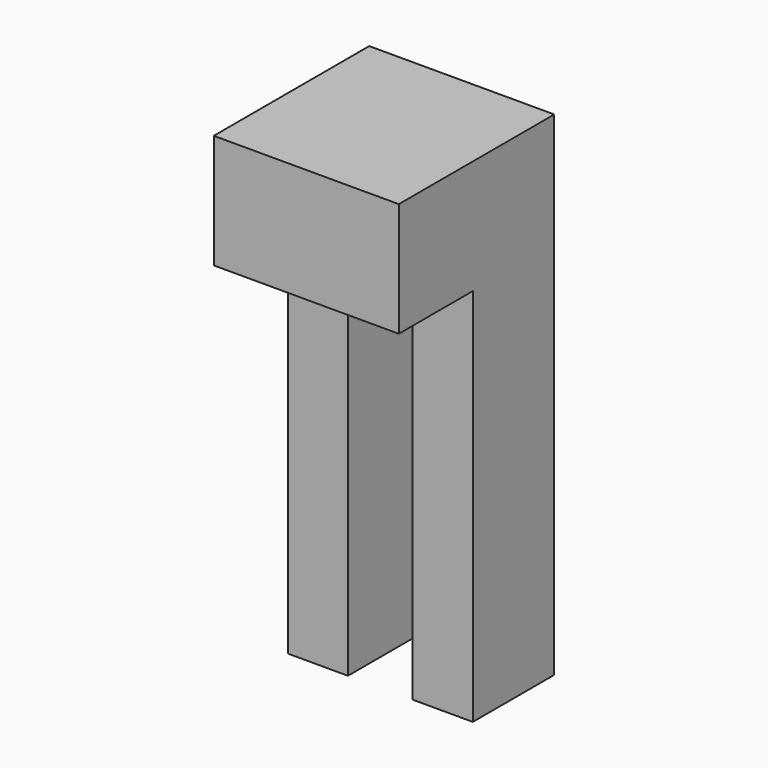
from build123d import *

# Parameters (mm, degrees)
F0_W      = 60
F0_H      = 33
F1_DEPTH  = 160
F2_W      = 30
F2_H      = 123
F3_DEPTH  = 60.001
F4_W      = 21
F4_H      = 123
F5_DEPTH  = 33.001
F7_W      = 57
F7_H      = 27
F8_DEPTH  = 3
F9_W      = 21
F9_H      = 37
F10_DEPTH = 30


with BuildPart() as f1:
    # F0 (on Top) → F1 (new body)
    with BuildSketch(Plane.XY):
        Rectangle(F0_W, F0_H)
    extrude(amount=F1_DEPTH)

    # F2 (on face) → F3 (cut, through all)
    with BuildSketch(Plane(origin=(-30, 0, 0), x_dir=(0, -1, 0), z_dir=(-1, 0, 0))):
        with Locations((1.5, 61.5)):
            Rectangle(F2_W, F2_H)
    extrude(amount=-F3_DEPTH, mode=Mode.SUBTRACT)

    # F4 (on face) → F5 (cut, through all)
    with BuildSketch(Plane(origin=(0, 16.5, 0), x_dir=(-1, 0, 0), z_dir=(0, 1, 0))):
        with Locations((0, -61.5)):
            Rectangle(F4_W, F4_H)
        with Locations((0, 61.5)):
            Rectangle(F4_W, F4_H)
    extrude(amount=-F5_DEPTH, mode=Mode.SUBTRACT)

    # F7 (on offset) → F8 (cut)
    with BuildSketch(Plane.XY.offset(123)):
        Rectangle(F7_W, F7_H)
    extrude(amount=F8_DEPTH, mode=Mode.SUBTRACT)

    # F9 (on face) → F10 (join)
    with BuildSketch(Plane(origin=(0, 16.5, 0), x_dir=(-1, 0, 0), z_dir=(0, 1, 0))):
        Polygon((30, 0), (30, 160), (10.5, 160), (10.5, 123), (10.5, 0), align=None)
        with Locations((0, 141.5)):
            Rectangle(F9_W, F9_H)
        Polygon((-10.5, 123), (-10.5, 160), (-30, 160), (-30, 0), (-10.5, 0), align=None)
    extrude(amount=F10_DEPTH)


solid = f1.part
